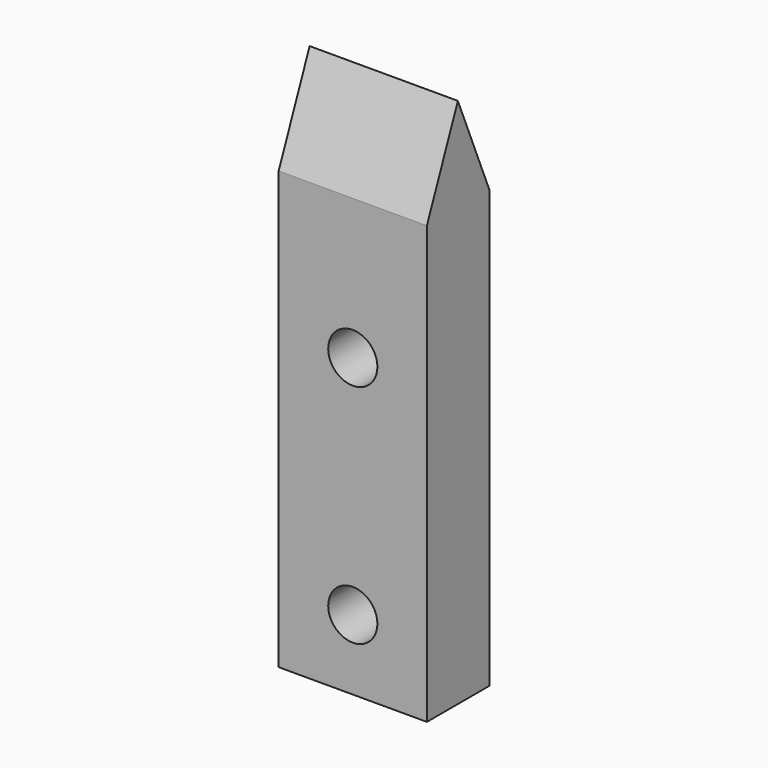
from build123d import *

# Parameters (mm, degrees)
F1_DEPTH = 9.5
F3_D     = 3.15


with BuildPart() as f1:
    # F0 (on Right) → F1 (new body)
    with BuildSketch(Plane.YZ):
        Polygon((0, 28), (0, 0), (5, 0), (5, 28), (2.4788551941, 34.0354706755), align=None)
    extrude(amount=F1_DEPTH)

    # F3 (through all)
    with Locations(Plane.XZ):
        with Locations((4.75, 19), (4.75, 4.5)):
            Hole(F3_D / 2)


solid = f1.part
